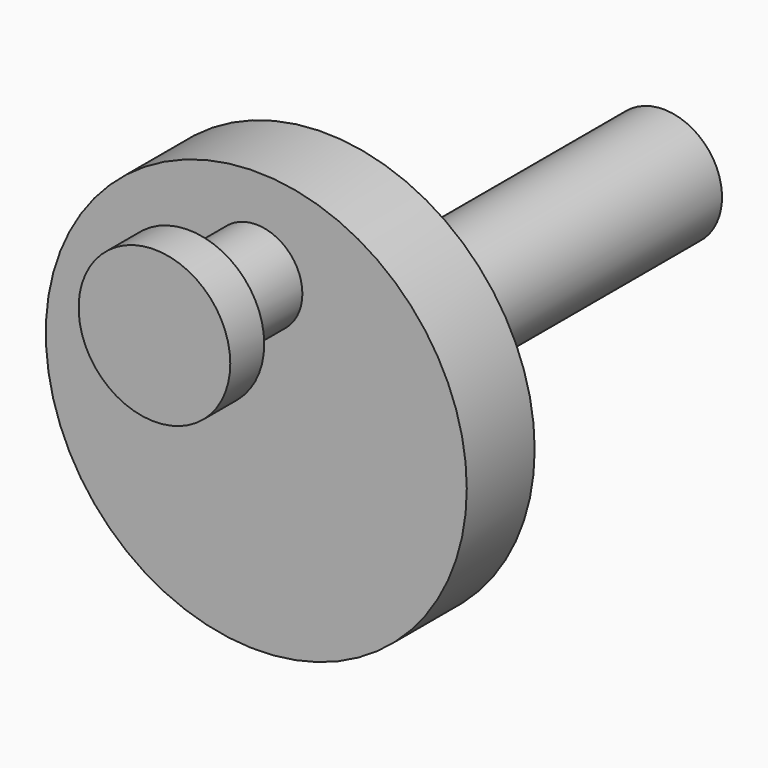
from build123d import *

# Parameters (mm, degrees)
F0_R     = 63.008602
F1_DEPTH = 25.4
F2_R     = 13.792903
F3_DEPTH = 63.5
F4_R     = 22.697716
F5_DEPTH = 12.7
F6_R     = 17.487641
F7_DEPTH = 127


with BuildPart() as f1:
    # F0 (on Front) → F1 (new body)
    with BuildSketch(Plane.XZ):
        Circle(F0_R)
    extrude(amount=F1_DEPTH)

    # F2 (on Front) → F3 (join)
    with BuildSketch(Plane.XZ):
        with Locations((0, 35.29866)):
            Circle(F2_R)
    extrude(amount=F3_DEPTH)

    # F4 (on face) → F5 (join)
    with BuildSketch(Plane.XZ.offset(63.5)):
        with Locations((0, 35.29866)):
            Circle(F4_R)
    extrude(amount=-F5_DEPTH)

    # F6 (on face) → F7 (join)
    with BuildSketch(Plane(origin=(0, 0, 0), x_dir=(-1, 0, 0), z_dir=(0, 1, 0))):
        Circle(F6_R)
    extrude(amount=F7_DEPTH)


solid = f1.part
